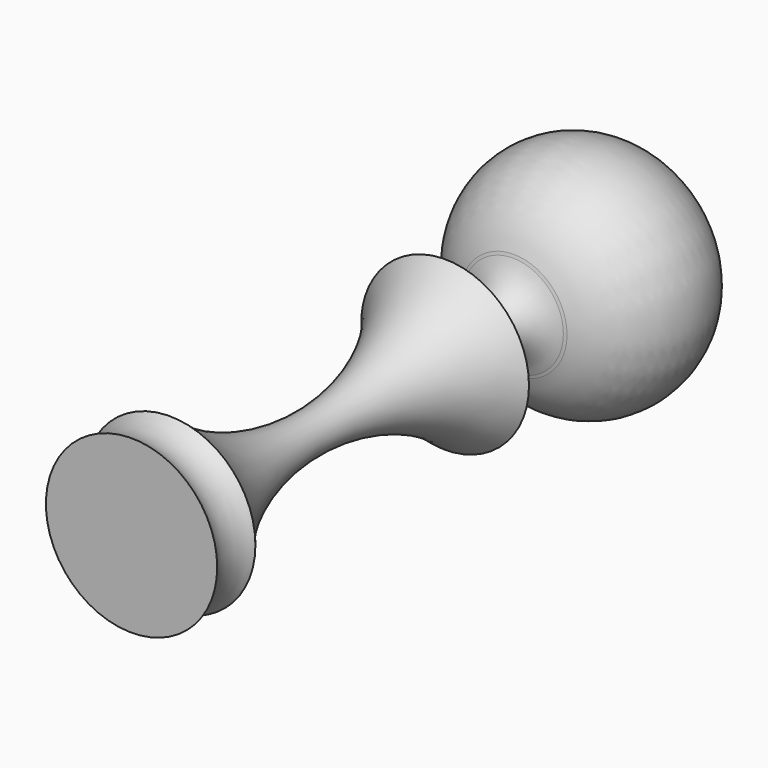
from build123d import *


with BuildPart() as f1:
    # F0 (on Top) → F1 (revolve)
    with BuildSketch(Plane.XY):
        with BuildLine():
            ThreePointArc((7.076549, 22.568279), (3.529327, 22.117446), (0, 22.691795))
            Line((0, 22.691795), (0, -44.340517))
            Line((0, -44.340517), (1.379482, -44.340517))
            Line((1.379482, -44.340517), (12.021208, -44.340517))
            ThreePointArc((12.021208, -44.340517), (10.835145, -40.990345), (12.021208, -37.640173))
            ThreePointArc((12.021208, -37.640173), (2.715607, -13.536306), (11.778985, 10.65968))
            ThreePointArc((11.778985, 10.65968), (3.140457, 14.131263), (7.076549, 22.568279))
        make_face()
        with BuildLine():
            ThreePointArc((7.4939, 22.691795), (15.640759, 38.332554), (0, 46.479414))
            Line((0, 46.479414), (0, 22.691795))
            ThreePointArc((0, 22.691795), (3.529327, 22.117446), (7.076549, 22.568279))
            ThreePointArc((7.076549, 22.568279), (7.284176, 22.63358), (7.4939, 22.691795))
        make_face()
    revolve(axis=Axis((0, 1.069448, 0), (0, 1, 0)))


solid = f1.part
